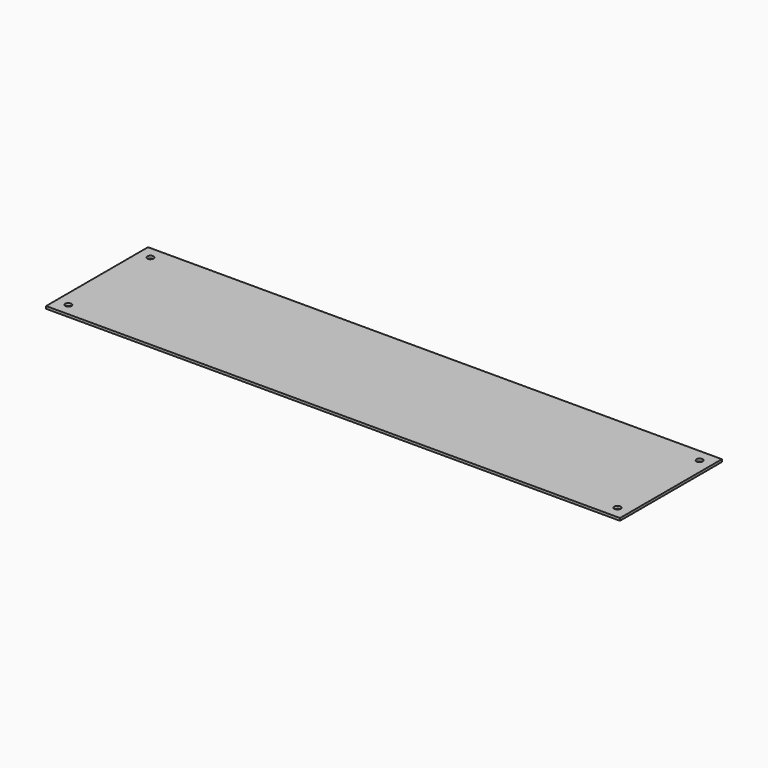
from build123d import *

# Parameters (mm, degrees)
SKETCH_W  = 464
SKETCH_H  = 103
SKETCH_R  = 2.5
PAD_DEPTH = 2


with BuildPart() as part:
    # Sketch → Pad (new body)
    with BuildSketch(Plane.XY):
        Rectangle(SKETCH_W, SKETCH_H)
        with Locations((-222, 41.5)):
            Circle(SKETCH_R, mode=Mode.SUBTRACT)
        with Locations((-222, -41.5)):
            Circle(SKETCH_R, mode=Mode.SUBTRACT)
        with Locations((222, -41.5)):
            Circle(SKETCH_R, mode=Mode.SUBTRACT)
        with Locations((222, 41.5)):
            Circle(SKETCH_R, mode=Mode.SUBTRACT)
    extrude(amount=PAD_DEPTH)


solid = part.part
